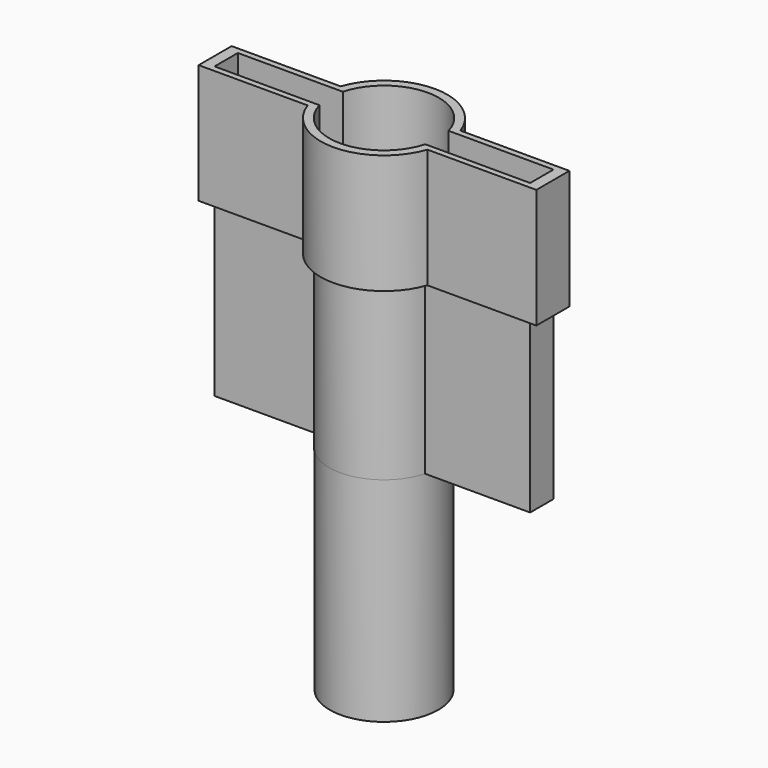
from build123d import *

# Parameters (mm, degrees)
F0_R     = 6.4653345571
F1_DEPTH = 25.4
F3_DEPTH = 20.32
F5_DEPTH = 14.224


with BuildPart() as f1:
    # F0 (on Top) → F1 (new body)
    with BuildSketch(Plane.XY):
        Circle(F0_R)
    extrude(amount=F1_DEPTH)

    # F2 (on face) → F3 (join)
    with BuildSketch(Plane.XY.offset(25.4)):
        with BuildLine():
            Line((6.2849330107, -1.7354558222), (18.7918692827, -1.7354558222))
            Line((18.7918692827, -1.7354558222), (18.7918692827, 1.7354558222))
            Line((18.7918692827, 1.7354558222), (6.2849330107, 1.7354558222))
            ThreePointArc((6.2849330107, 1.7354558222), (6.4610686324, 0.8756608859), (6.5201372577, 0))
            ThreePointArc((6.5201372577, 0), (6.4610686324, -0.8756608859), (6.2849330107, -1.7354558222))
        make_face()
        with BuildLine():
            ThreePointArc((-6.2849330107, -1.7354558222), (0, -6.5201372577), (6.2849330107, -1.7354558222))
            Line((6.2849330107, -1.7354558222), (-6.2849330107, -1.7354558222))
        make_face()
        with BuildLine():
            Line((-6.2849330107, -1.7354558222), (6.2849330107, -1.7354558222))
            ThreePointArc((6.2849330107, -1.7354558222), (6.4610686324, -0.8756608859), (6.5201372577, 0))
            ThreePointArc((6.5201372577, 0), (6.4610686324, 0.8756608859), (6.2849330107, 1.7354558222))
            Line((6.2849330107, 1.7354558222), (-6.2849330107, 1.7354558222))
            ThreePointArc((-6.2849330107, 1.7354558222), (-6.5201372577, 0), (-6.2849330107, -1.7354558222))
        make_face()
        with BuildLine():
            Line((-18.7918692827, -1.7354558222), (-6.2849330107, -1.7354558222))
            ThreePointArc((-6.2849330107, -1.7354558222), (-6.5201372577, 0), (-6.2849330107, 1.7354558222))
            Line((-6.2849330107, 1.7354558222), (-18.7918692827, 1.7354558222))
            Line((-18.7918692827, 1.7354558222), (-18.7918692827, -1.7354558222))
        make_face()
        with BuildLine():
            Line((-6.2849330107, 1.7354558222), (6.2849330107, 1.7354558222))
            ThreePointArc((6.2849330107, 1.7354558222), (0, 6.5201372577), (-6.2849330107, 1.7354558222))
        make_face()
    extrude(amount=F3_DEPTH)


with BuildPart() as f5:
    # F4 (on face) → F5 (new body)
    with BuildSketch(Plane.XY.offset(45.72)):
        with BuildLine():
            Line((-20.1059710234, -2.4558792356), (-7.1285591408, -2.4558792356))
            ThreePointArc((-7.1285591408, -2.4558792356), (0, -7.5397412584), (7.1285591408, -2.4558792356))
            Line((7.1285591408, -2.4558792356), (20.1059710234, -2.4558792356))
            Line((20.1059710234, -2.4558792356), (20.1059710234, 2.4558792356))
            Line((20.1059710234, 2.4558792356), (7.1285591408, 2.4558792356))
            ThreePointArc((7.1285591408, 2.4558792356), (0, 7.5397412584), (-7.1285591408, 2.4558792356))
            Line((-7.1285591408, 2.4558792356), (-20.1059710234, 2.4558792356))
            Line((-20.1059710234, 2.4558792356), (-20.1059710234, -2.4558792356))
        make_face()
        with BuildLine():
            ThreePointArc((-6.2973014379, 1.7354558222), (0, 6.5320603419), (6.2973014379, 1.7354558222))
            Line((6.2973014379, 1.7354558222), (18.7918692827, 1.7354558222))
            Line((18.7918692827, 1.7354558222), (18.7918692827, -1.7354558222))
            Line((18.7918692827, -1.7354558222), (6.2973014379, -1.7354558222))
            ThreePointArc((6.2973014379, -1.7354558222), (0, -6.5320603419), (-6.2973014379, -1.7354558222))
            Line((-6.2973014379, -1.7354558222), (-18.7918692827, -1.7354558222))
            Line((-18.7918692827, -1.7354558222), (-18.7918692827, 1.7354558222))
            Line((-18.7918692827, 1.7354558222), (-6.2973014379, 1.7354558222))
        make_face(mode=Mode.SUBTRACT)
    extrude(amount=F5_DEPTH)


solid = Compound([f1.part, f5.part])
